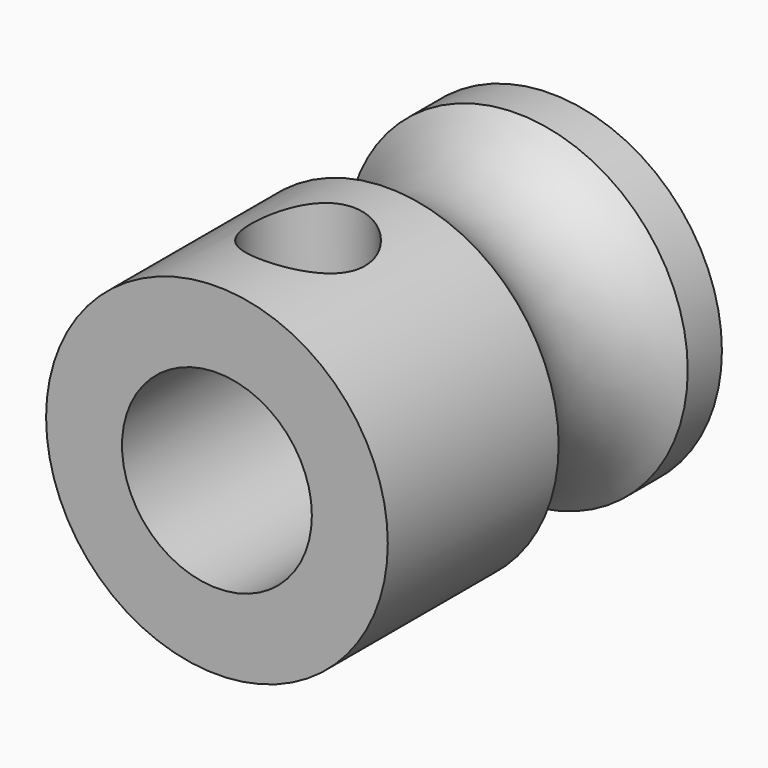
from build123d import *

# Parameters (mm, degrees)
F2_R     = 1.5
F3_DEPTH = 4.501


with BuildPart() as f1:
    # F0 (on Top) → F1 (revolve)
    with BuildSketch(Plane.XY):
        with BuildLine():
            Line((2.5, 11), (2.5, 0))
            Line((2.5, 0), (4.5, 0))
            Line((4.5, 0), (4.5, 5.625))
            ThreePointArc((4.5, 5.625), (3.5, 7.75), (4.5, 9.875))
            Line((4.5, 9.875), (4.5, 11))
            Line((4.5, 11), (2.5, 11))
        make_face()
    revolve(axis=Axis((0, 5.5, 0), (0, 1, 0)))

    # F2 (on Top) → F3 (cut, through all)
    with BuildSketch(Plane.XY):
        with Locations((0, 3)):
            Circle(F2_R)
    extrude(amount=F3_DEPTH, mode=Mode.SUBTRACT)


solid = f1.part
